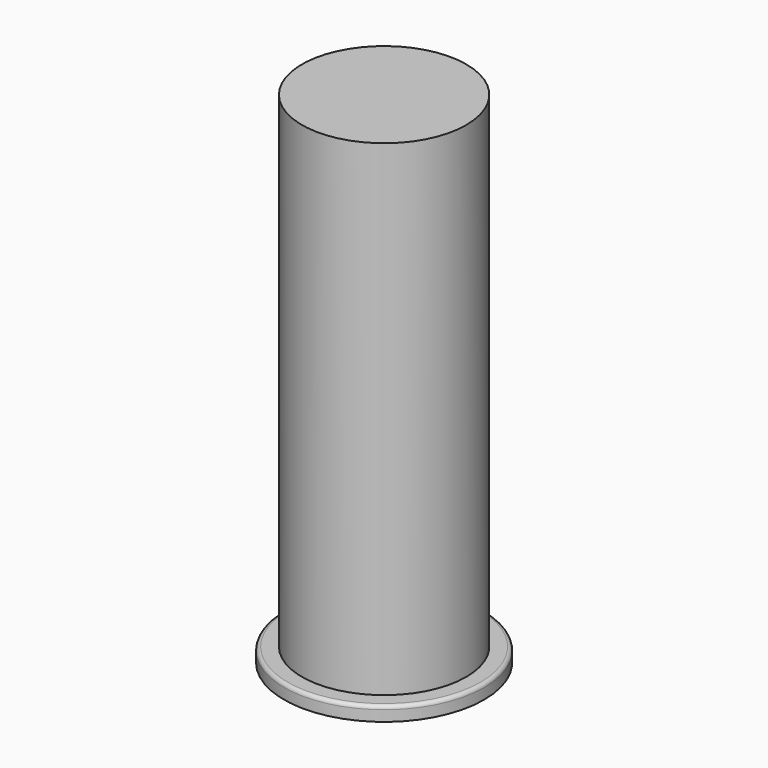
from build123d import *

# Parameters (mm, degrees)
F0_R     = 11.5
F1_DEPTH = 70
F0_R_2   = 14
F2_DEPTH = 2
F3_R     = 0.5


with BuildPart() as f1:
    # F0 (on Top) → F1 (new body)
    with BuildSketch(Plane.XY):
        Circle(F0_R)
    extrude(amount=F1_DEPTH)

    # F0 (on Top) → F2 (join)
    with BuildSketch(Plane.XY):
        Circle(F0_R_2)
        Circle(F0_R, mode=Mode.SUBTRACT)
    extrude(amount=F2_DEPTH)

    # F3
    f3_edges = [f1.edges().sort_by_distance(p)[0] for p in [
        (-14, 0, 2),
    ]]
    fillet(f3_edges, radius=F3_R)


solid = f1.part
